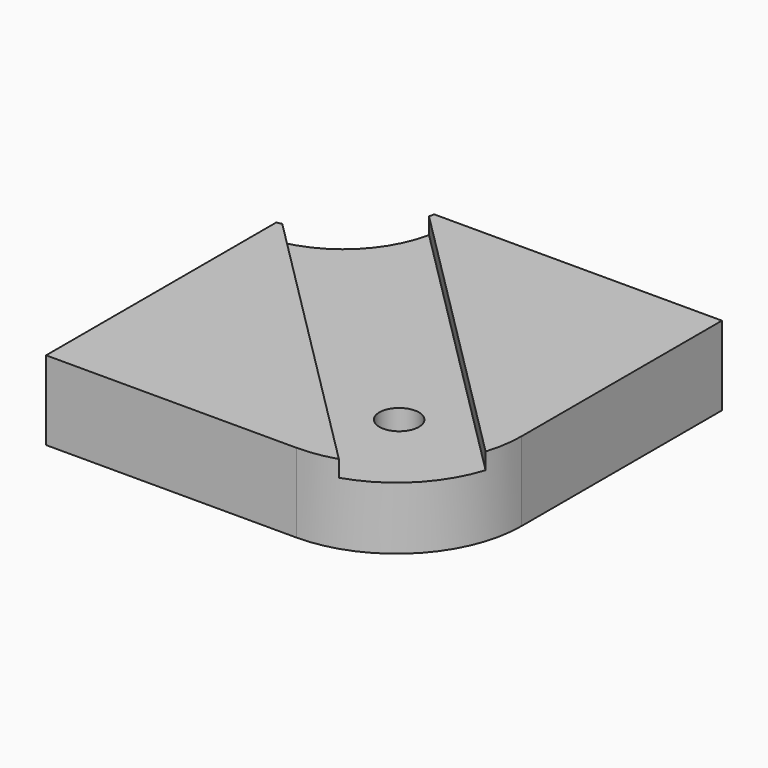
from build123d import *

# Parameters (mm, degrees)
PAD016_DEPTH            = 24
POCKET028_DEPTH         = 5
SKETCH046_R             = 32
SKETCH046_R_2           = 6
POCKET029_DEPTH         = 24
BODY014_PLACEMENT_ANGLE = 180


with BuildPart() as part:
    # Sketch044 → Pad016 (new body)
    with BuildSketch(Plane.XY):
        with BuildLine():
            Line((5, 5), (119, 5))
            Line((119, 5), (119, 81))
            ThreePointArc((119, 81), (107.870058, 107.870058), (81, 119))
            Line((81, 119), (5, 119))
            Line((5, 119), (5, 5))
        make_face()
    extrude(amount=PAD016_DEPTH)

    # Sketch045 → Pocket028 (cut)
    with BuildSketch(Plane(origin=(0, 0, 0), x_dir=(1, 0, 0), z_dir=(0, 0, -1))):
        Polygon((12.374369, 12.374369), (123.206096, -98.457359), (98.457359, -123.206096), (-12.374369, -12.374369), (0, 0), align=None)
    extrude(amount=-POCKET028_DEPTH, mode=Mode.SUBTRACT)

    # Sketch046 → Pocket029 (cut)
    with BuildSketch(Plane.XY.offset(24)):
        Circle(SKETCH046_R)
        with Locations((85, 85)):
            Circle(SKETCH046_R_2)
    extrude(amount=-POCKET029_DEPTH, mode=Mode.SUBTRACT)


with BuildPart() as part_1:
    # Body014 placement: moved
    add(part.part.moved(Location((0, 210, -90))).rotate(Axis((0, 210, -90), (1, 0, 0)), BODY014_PLACEMENT_ANGLE))


solid = part_1.part
